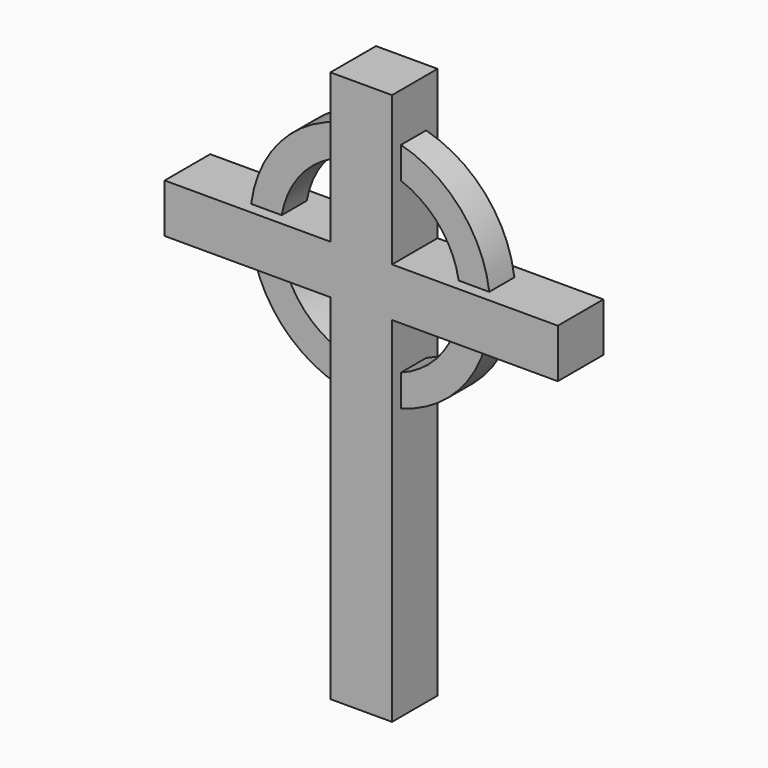
from build123d import *

# Parameters (mm, degrees)
F0_W     = 21.6247915292
F0_H     = 124.2449581623
F0_H_2   = 17.1730741858
F0_W_2   = 58.2132623064
F0_H_3   = 52.3436591029
F1_DEPTH = 20
F3_START = 5.0310119987
F2_R     = 42.1421973327
F2_R_2   = 31.5424632227
F3_DEPTH = 11.0163316131


with BuildPart() as f1:
    # F0 (on Front) → F1 (new body)
    with BuildSketch(Plane.XZ):
        with Locations((0, -34.7583666444)):
            Rectangle(F0_W, F0_H)
        with Locations((0, 35.9506495297)):
            Rectangle(F0_W, F0_H_2)
        with Locations((39.9190269178, 35.9506495297)):
            Rectangle(F0_W_2, F0_H_2)
        with Locations((-39.9190269178, 35.9506495297)):
            Rectangle(F0_W_2, F0_H_2)
        with Locations((0, 70.7090161741)):
            Rectangle(F0_W, F0_H_3)
    extrude(amount=F1_DEPTH)

    # F2 (on Front) → F3 (join)
    with BuildSketch(Plane.XZ.offset(F3_START)):
        with Locations((0, 39.1673594713)):
            Circle(F2_R)
        with Locations((0, 39.1673594713)):
            Circle(F2_R_2, mode=Mode.SUBTRACT)
    extrude(amount=F3_DEPTH)


solid = f1.part
